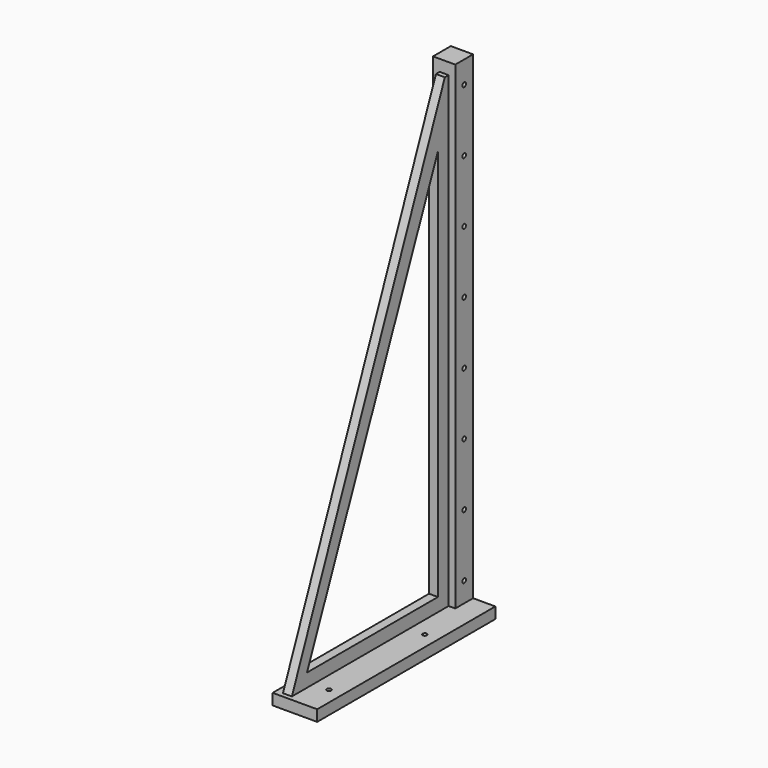
from build123d import *

# Parameters (mm, degrees)
F0_W      = 25.4
F0_H      = 127
F1_DEPTH  = 6.35
F2_W      = 12.7
F2_H      = 12.7
F3_DEPTH  = 273.05
F4_W      = 2.54
F4_H      = 6.5340787411
F5_DEPTH  = 25.4
F7_DEPTH  = 5.08
F8_DEPTH  = 25.4
F10_DEPTH = 25.4
F11_R     = 1.27
F12_DEPTH = 25.4


with BuildPart() as f1:
    # F0 (on Top) → F1 (new body)
    with BuildSketch(Plane.XY):
        with Locations((-12.7, 63.5)):
            Rectangle(F0_W, F0_H)
    extrude(amount=F1_DEPTH)

    # F2 (on face) → F3 (join)
    with BuildSketch(Plane.XY.offset(6.35)):
        with Locations((-19.05, 120.65)):
            Rectangle(F2_W, F2_H)
    extrude(amount=F3_DEPTH)

    # F4 (on face) → F5 (join)
    with BuildSketch(Plane.XZ.offset(-114.3)):
        with Locations((-20.32, 276.1329606295)):
            Rectangle(F4_W, F4_H)
    extrude(amount=F5_DEPTH)

    # F6 (on face) → F7 (join)
    with BuildSketch(Plane(origin=(-21.59, 0, 0), x_dir=(0, -1, 0), z_dir=(-1, 0, 0))):
        Polygon((-13.335, 13.97), (-5.715, 13.97), (-111.6269677877, 272.8659212589), (-114.3, 272.8659212589), (-114.3, 263.1782591343), (-114.3, 6.35), (-106.68, 6.35), (-106.68, 13.97), (-106.68, 217.2529995441), (-106.68, 237.5801540886), align=None)
        Polygon((0, 0), (-5.715, 13.97), (-13.335, 13.97), (-106.68, 13.97), (-106.68, 6.35), (-114.3, 6.35), (-114.3, 0), (-96.3151082397, 0), align=None)
    extrude(amount=-F7_DEPTH)

    # F8 (cut): a face of the model
    f8_faces = [f1.faces().sort_by_distance(p)[0] for p in [
        (-20.32, 88.9, 276.1329606295),
    ]]
    extrude(f8_faces, amount=-F8_DEPTH, mode=Mode.SUBTRACT)

    # F9 (on face) → F10 (cut)
    with BuildSketch(Plane.XY.offset(6.35)):
        with BuildLine():
            ThreePointArc((-6.35, 86.2650498748), (-8.5180256121, 87.1630754869), (-7.62, 84.9950498748))
            ThreePointArc((-7.62, 84.9950498748), (-6.7219743879, 85.3670242627), (-6.35, 86.2650498748))
        make_face()
        with BuildLine():
            ThreePointArc((-7.62, 19.2763266307), (-8.5180256121, 17.1083010186), (-6.35, 18.0063266307))
            Line((-6.35, 18.0063266307), (-7.62, 18.0063266307))
            Line((-7.62, 18.0063266307), (-7.62, 19.2763266307))
        make_face()
        with BuildLine():
            Line((-7.62, 18.0063266307), (-6.35, 18.0063266307))
            ThreePointArc((-6.35, 18.0063266307), (-6.7219743879, 18.9043522428), (-7.62, 19.2763266307))
            Line((-7.62, 19.2763266307), (-7.62, 18.0063266307))
        make_face()
    extrude(amount=-F10_DEPTH, mode=Mode.SUBTRACT)

    # F11 (on face) → F12 (cut)
    with BuildSketch(Plane.YZ.offset(-12.7)):
        with BuildLine():
            ThreePointArc((121.92, 266.7), (121.5480256121, 267.5980256121), (120.65, 267.97))
            ThreePointArc((120.65, 267.97), (119.7519743879, 265.8019743879), (121.92, 266.7))
        make_face()
        with Locations((120.65, 231.14)):
            Circle(F11_R)
        with Locations((120.65, 195.58)):
            Circle(F11_R)
        with Locations((120.65, 160.02)):
            Circle(F11_R)
        with Locations((120.65, 124.46)):
            Circle(F11_R)
        with Locations((120.65, 88.9)):
            Circle(F11_R)
        with Locations((120.65, 53.34)):
            Circle(F11_R)
        with Locations((120.65, 17.78)):
            Circle(F11_R)
    extrude(amount=-F12_DEPTH, mode=Mode.SUBTRACT)


solid = f1.part
